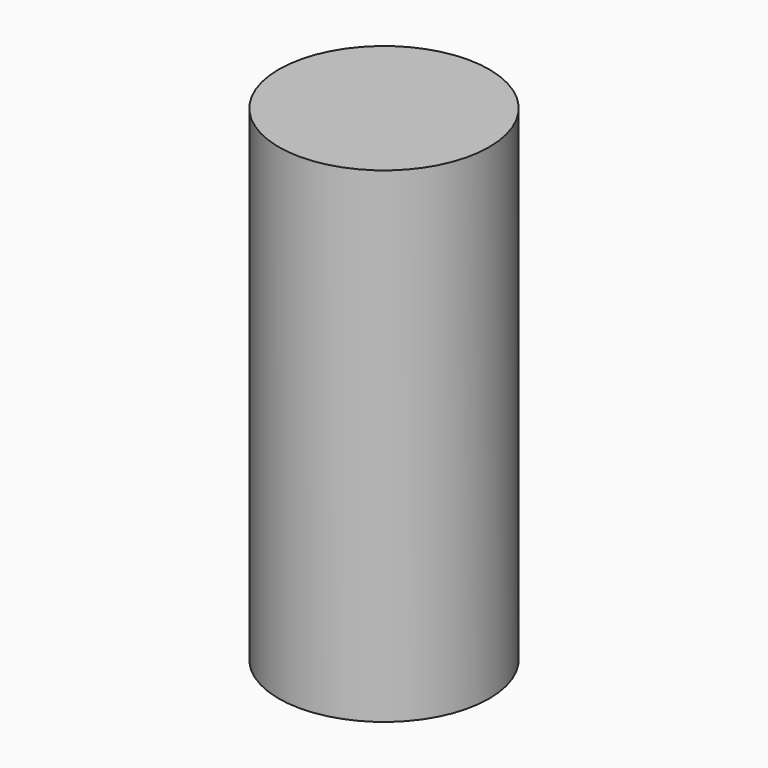
from build123d import *

# Parameters (mm, degrees)
F0_R      = 3.25
F1_DEPTH  = 15
F2_R      = 1.75
F3_DEPTH  = 8
F5_R      = 1.75
F6_DEPTH  = 2
F8_R      = 1.75
F9_DEPTH  = 2
F10_R     = 0.5
F11_DEPTH = 1


with BuildPart() as f1:
    # F0 (on Top) → F1 (new body)
    with BuildSketch(Plane.XY):
        Circle(F0_R)
    extrude(amount=F1_DEPTH)

    # F2 (on face) → F3 (cut)
    with BuildSketch(Plane(origin=(0, 0, 0), x_dir=(1, 0, 0), z_dir=(0, 0, -1))):
        Circle(F2_R)
    extrude(amount=-F3_DEPTH, mode=Mode.SUBTRACT)

    # F5 (on offset) → F6 (cut)
    with BuildSketch(Plane(origin=(0, 0, 9), x_dir=(1, 0, 0), z_dir=(0, 0, -1))):
        Circle(F5_R)
    extrude(amount=-F6_DEPTH, mode=Mode.SUBTRACT)

    # F8 (on offset) → F9 (cut)
    with BuildSketch(Plane(origin=(0, 0, 12), x_dir=(1, 0, 0), z_dir=(0, 0, -1))):
        Circle(F8_R)
    extrude(amount=-F9_DEPTH, mode=Mode.SUBTRACT)

    # F10 (on offset) → F11 (cut)
    with BuildSketch(Plane(origin=(0, 0, 12), x_dir=(1, 0, 0), z_dir=(0, 0, -1))):
        with Locations((-1, -0.5)):
            Circle(F10_R)
        with Locations((1, -0.5)):
            Circle(F10_R)
        with Locations((0, 1)):
            Circle(F10_R)
    extrude(amount=F11_DEPTH, mode=Mode.SUBTRACT)


solid = f1.part
